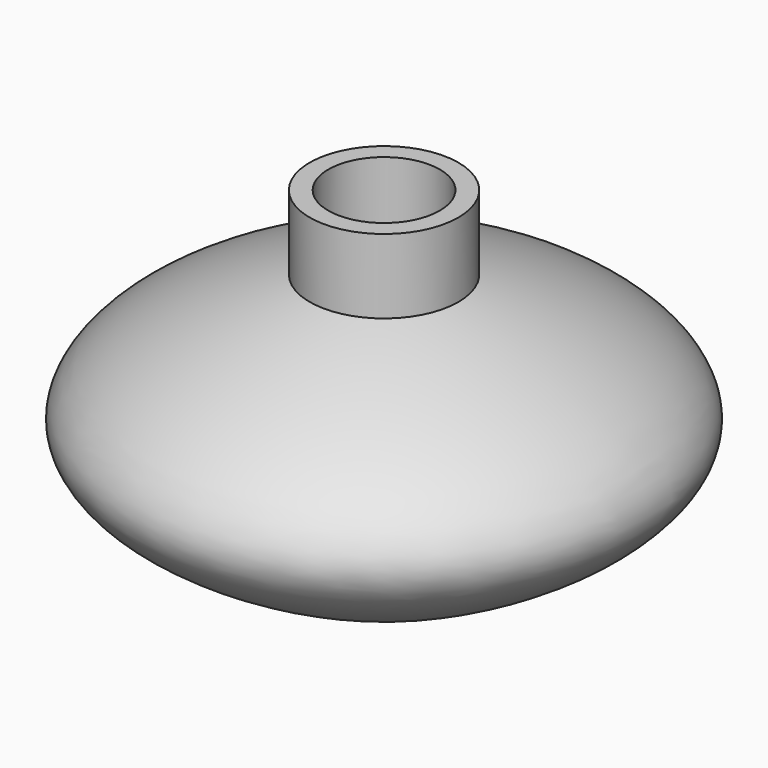
from build123d import *

# Parameters (mm, degrees)
F2_R     = 4.7625
F3_DEPTH = 9.525
F4_R     = 2.2225
F5_DEPTH = 20.955


with BuildPart() as f1:
    # F0 (on Front) → F1 (revolve)
    with BuildSketch(Plane.XZ):
        with BuildLine():
            Line((0, 31.75), (0, 0))
            add(Edge.make_bspline(
                [(0, 0), (11.3912708933, 5.2234637309), (31.6529425674, 13.3350349717), (15.0865243452, 22.9511441647), (6.35, 25.4)],
                knots=[0, 0, 0, 0, 0.5389896465, 1, 1, 1, 1], degree=3))
            Line((6.35, 25.4), (6.35, 31.75))
            Line((6.35, 31.75), (0, 31.75))
        make_face()
    revolve(axis=Axis((0, 0, 15.875), (0, 0, -1)))

    # F2 (on face) → F3 (cut)
    with BuildSketch(Plane.XY.offset(31.75)):
        Circle(F2_R)
    extrude(amount=-F3_DEPTH, mode=Mode.SUBTRACT)

    # F4 (on Top) → F5 (cut)
    with BuildSketch(Plane.XY):
        Circle(F4_R)
    extrude(amount=F5_DEPTH, mode=Mode.SUBTRACT)


solid = f1.part
